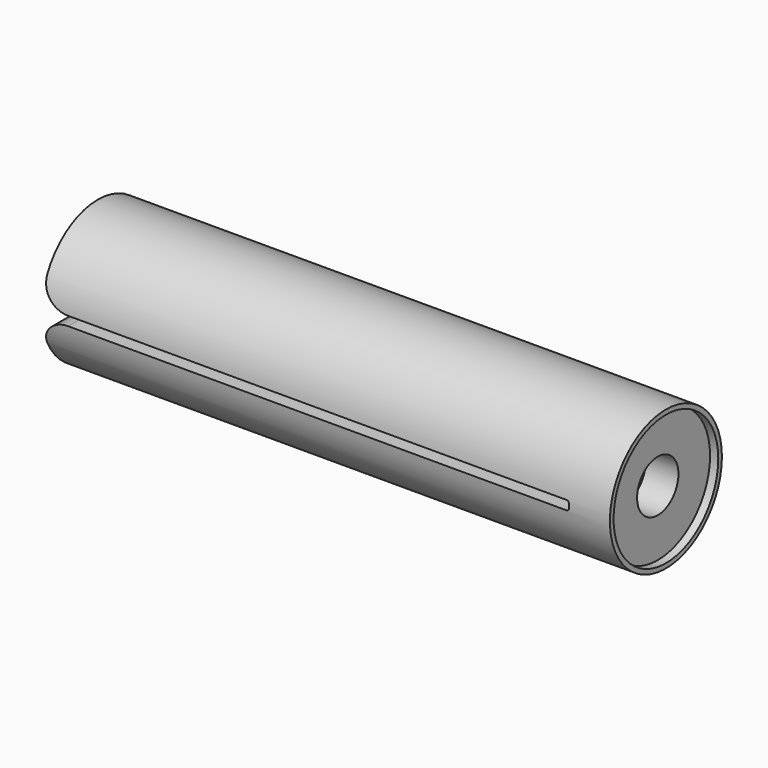
from build123d import *

# Parameters (mm, degrees)
F0_R      = 13.589
F1_DEPTH  = 114.3
F3_DEPTH  = 50.546
F4_R      = 5.0165
F5_DEPTH  = 152.4
F6_R      = 6.731
F7_DEPTH  = 106.934
F8_R      = 5.08
F9_R      = 0.508
F10_W     = 8.001
F10_H     = 42.073292
F11_DEPTH = 17.8308
F12_R     = 12.7
F13_DEPTH = 1.5875


with BuildPart() as f1:
    # F0 (on Right) → F1 (new body)
    with BuildSketch(Plane.YZ):
        Circle(F0_R)
    extrude(amount=-F1_DEPTH)

    # F2 (on Front) → F3 (cut, symmetric)
    with BuildSketch(Plane.XZ):
        Polygon((-11.938, 0.889), (-114.3, 0.889), (-114.3, -0.889), (-11.938, -0.889), (-11.938, 0), align=None)
    extrude(amount=F3_DEPTH, both=True, mode=Mode.SUBTRACT)

    # F4 (on face) → F5 (cut)
    with BuildSketch(Plane.YZ):
        Circle(F4_R)
    extrude(amount=-F5_DEPTH, mode=Mode.SUBTRACT)

    # F6 (on face) → F7 (cut)
    with BuildSketch(Plane(origin=(-11.938, 0, 0), x_dir=(0, -1, 0), z_dir=(-1, 0, 0))):
        Circle(F6_R)
    extrude(amount=F7_DEPTH, mode=Mode.SUBTRACT)

    # F8
    f8_edges = [f1.edges().sort_by_distance(p)[0] for p in [
        (-114.3, 10.115962, 0.889),
        (-114.3, -10.115962, 0.889),
        (-114.3, -10.115962, -0.889),
        (-114.3, 10.115962, -0.889),
    ]]
    fillet(f8_edges, radius=F8_R)

    # F9
    f9_edges = [f1.edges().sort_by_distance(p)[0] for p in [
        (-11.938, 10.115962, 0.889),
        (-11.938, -10.115962, 0.889),
        (-11.938, 10.115962, -0.889),
        (-11.938, -10.115962, -0.889),
        (-11.938, 0, 6.731),
        (-11.938, 0, -6.731),
    ]]
    fillet(f9_edges, radius=F9_R)

    # F10 (on Front) → F11 (cut, symmetric)
    with BuildSketch(Plane.XZ):
        Rectangle(F10_W, F10_H)
    extrude(amount=F11_DEPTH, both=True, mode=Mode.SUBTRACT)

    # F12 (on face) → F13 (cut)
    with BuildSketch(Plane.YZ.offset(-4.0005)):
        Circle(F12_R)
    extrude(amount=-F13_DEPTH, mode=Mode.SUBTRACT)


solid = f1.part
